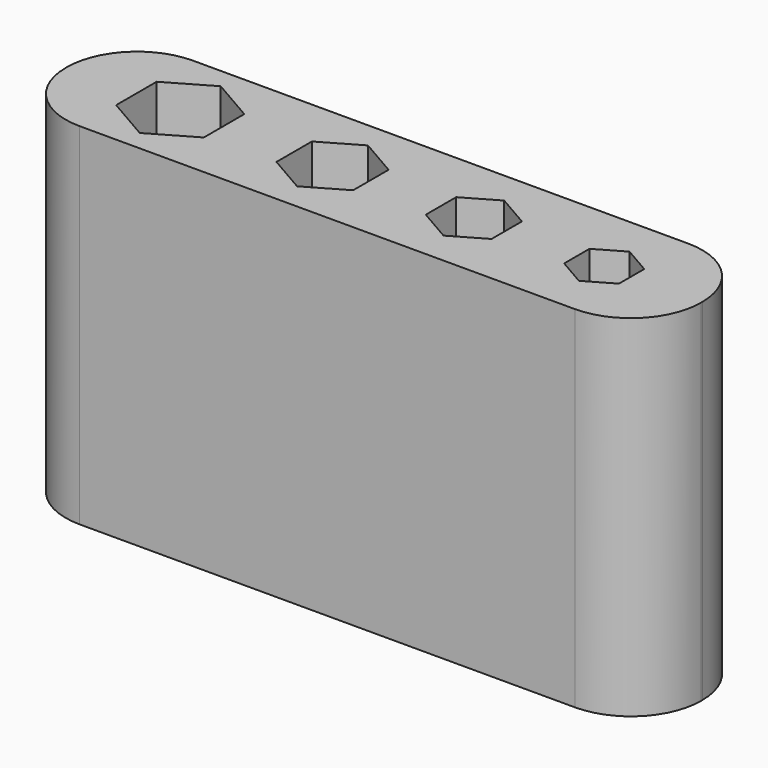
from build123d import *

# Parameters (mm, degrees)
F0_W     = 23.01875
F0_H     = 5.137871
F1_DEPTH = 12.7
F2_R     = 2.54


with BuildPart() as f1:
    # F0 (on Top) → F1 (new body)
    with BuildSketch(Plane.XY):
        with Locations((19.261102, 12.760969)):
            Rectangle(F0_W, F0_H)
        Polygon((11.879227, 14.594055), (13.466727, 13.677512), (13.466727, 11.844425), (11.879227, 10.927881), (10.291727, 11.844425), (10.291727, 13.677512), align=None, mode=Mode.SUBTRACT)
        Polygon((17.39579, 14.364919), (18.784852, 13.562944), (18.784852, 11.958993), (17.39579, 11.157017), (16.006727, 11.958993), (16.006727, 13.562944), align=None, mode=Mode.SUBTRACT)
        Polygon((22.515477, 14.135783), (23.706102, 13.448376), (23.706102, 12.073561), (22.515477, 11.386153), (21.324852, 12.073561), (21.324852, 13.448376), align=None, mode=Mode.SUBTRACT)
        Polygon((27.23829, 13.906648), (28.230477, 13.333808), (28.230477, 12.188128), (27.23829, 11.615289), (26.246102, 12.188128), (26.246102, 13.333808), align=None, mode=Mode.SUBTRACT)
    extrude(amount=F1_DEPTH)

    # F2
    f2_edges = [f1.edges().sort_by_distance(p)[0] for p in [
        (30.770477, 10.192033, 6.35),
        (7.751727, 10.192033, 6.35),
        (7.751727, 15.329904, 6.35),
        (30.770477, 15.329904, 6.35),
    ]]
    fillet(f2_edges, radius=F2_R)


solid = f1.part
